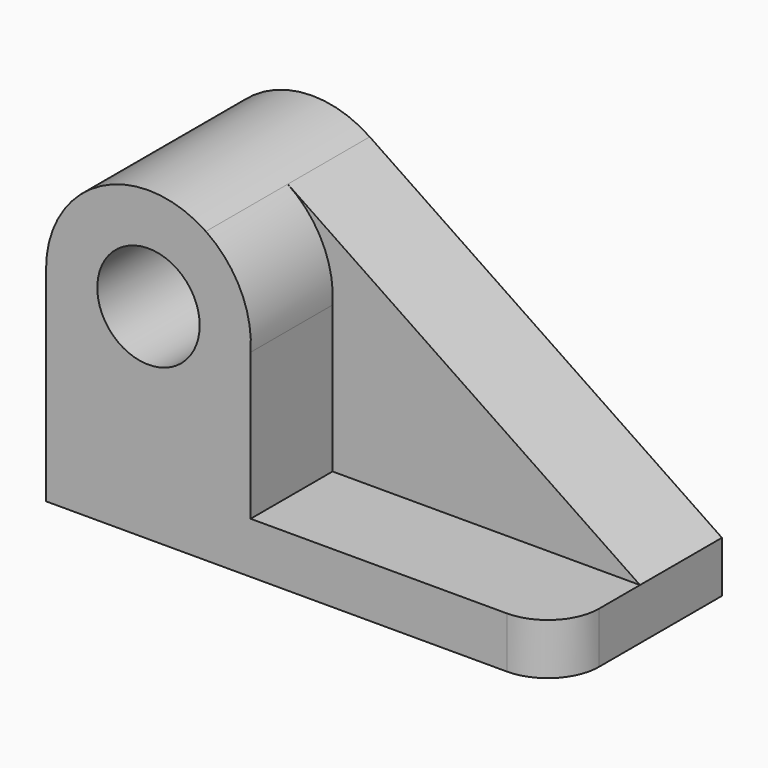
from build123d import *

# Parameters (mm, degrees)
F0_R     = 12.7
F1_DEPTH = 25.4
F2_R     = 12.7
F3_DEPTH = 25.4
F4_R     = 12.7


with BuildPart() as f1:
    # F0 (on Front) → F1 (new body)
    with BuildSketch(Plane.XZ):
        with BuildLine():
            Line((56.1041173697, 12.7), (-31.2580095022, 71.8343283417))
            ThreePointArc((-31.2580095022, 71.8343283417), (-57.402141962, 73.2365993129), (-70.8958826303, 50.8))
            Line((-70.8958826303, 50.8), (-70.8958826303, 0))
            Line((-70.8958826303, 0), (56.1041173697, 0))
            Line((56.1041173697, 0), (56.1041173697, 12.7))
        make_face()
        with Locations((-45.4958826303, 50.8)):
            Circle(F0_R, mode=Mode.SUBTRACT)
    extrude(amount=F1_DEPTH)

    # F2 (on face) → F3 (join)
    with BuildSketch(Plane.XZ.offset(25.4)):
        with BuildLine():
            Line((-20.1558080966, 12.7), (-20.1558080966, 49.0562618815))
            ThreePointArc((-20.1558080966, 49.0562618815), (-22.663590516, 61.9286313985), (-31.2580095022, 71.8343283417))
            ThreePointArc((-31.2580095022, 71.8343283417), (-57.402141962, 73.2365993129), (-70.8958826303, 50.8))
            Line((-70.8958826303, 50.8), (-70.8958826303, 12.7))
            Line((-70.8958826303, 12.7), (-70.8958826303, 7.7714477666))
            Line((-70.8958826303, 7.7714477666), (-70.8958826303, 0))
            Line((-70.8958826303, 0), (56.1041173697, 0))
            Line((56.1041173697, 0), (56.1041173697, 7.7714477666))
            Line((56.1041173697, 7.7714477666), (56.1041173697, 12.7))
            Line((56.1041173697, 12.7), (-20.1558080966, 12.7))
        make_face()
        with Locations((-45.4958826303, 50.8)):
            Circle(F2_R, mode=Mode.SUBTRACT)
    extrude(amount=F3_DEPTH)

    # F4
    f4_edges = [f1.edges().sort_by_distance(p)[0] for p in [
        (56.104117, -50.8, 6.35),
    ]]
    fillet(f4_edges, radius=F4_R)


solid = f1.part
